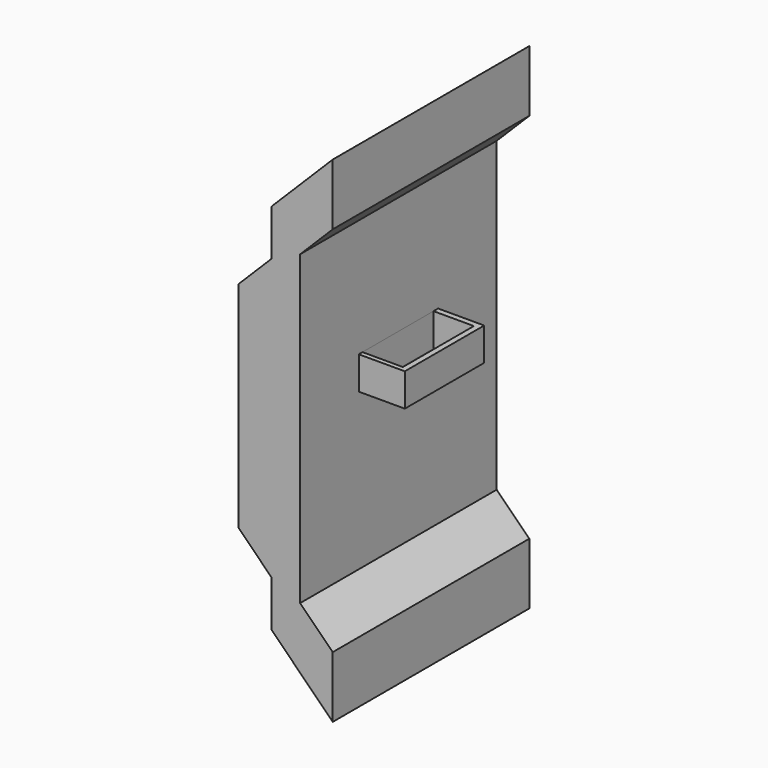
from build123d import *

# Parameters (mm, degrees)
F1_DEPTH = 80
F2_W     = 32.294086
F2_H     = 10.712334
F3_DEPTH = 15
F4_W     = 13.147677
F4_H     = 28.905093
F5_DEPTH = 25


with BuildPart() as f1:
    # F0 (on Front) → F1 (new body)
    with BuildSketch(Plane.XZ):
        Polygon((-22.541075, 39.326958), (-33.147677, 28.720356), (-33.147677, -41.279644), (-22.541075, -51.886245), (-22.541075, -66.886245), (-2.541075, -86.886245), (-2.541075, -66.886245), (-13.147677, -56.279644), (-13.147677, 43.720356), (-2.541075, 54.326958), (-2.541075, 74.326958), (-22.541075, 54.326958), align=None)
    extrude(amount=F1_DEPTH)

    # F2 (on face) → F3 (join)
    with BuildSketch(Plane.YZ.offset(-13.147677)):
        with Locations((-40, 0)):
            Rectangle(F2_W, F2_H)
    extrude(amount=F3_DEPTH)

    # F4 (on face) → F5 (cut)
    with BuildSketch(Plane.XY.offset(5.356167)):
        with Locations((-6.573838, -40.174481)):
            Rectangle(F4_W, F4_H)
    extrude(amount=-F5_DEPTH, mode=Mode.SUBTRACT)


solid = f1.part
